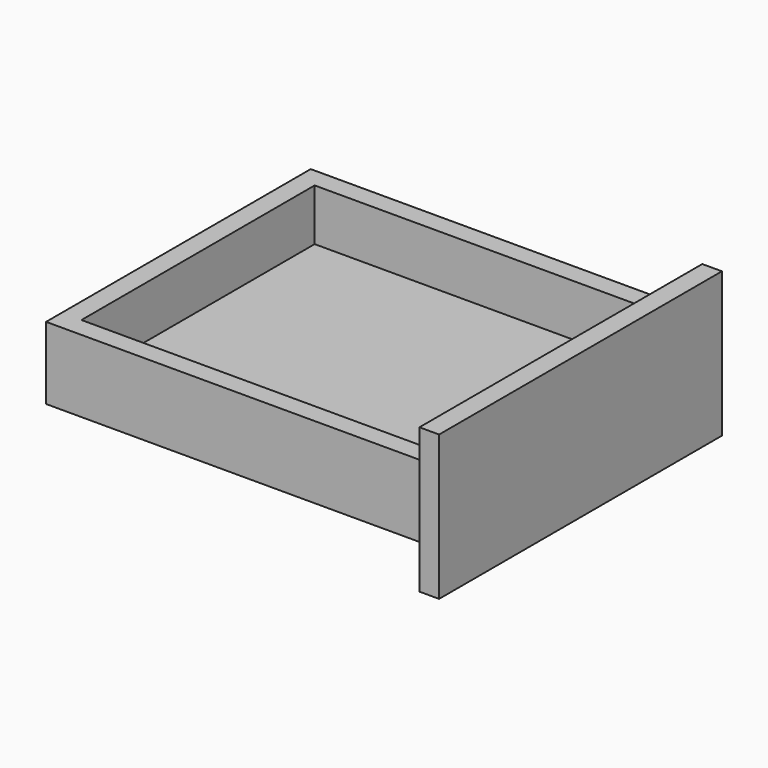
from build123d import *

# Parameters (mm, degrees)
F0_W      = 370
F0_H      = 320
F1_DEPTH  = 70
F2_W      = 332
F2_H      = 282
F3_DEPTH  = 25
F3_FACE_W = 332
F3_FACE_H = 282
F4_DEPTH  = 11
F5_DEPTH  = 25
F6_W      = 342
F6_H      = 140
F6_W_2    = 320
F6_H_2    = 70
F7_DEPTH  = 19


with BuildPart() as f1:
    # F0 (on Top) → F1 (new body)
    with BuildSketch(Plane.XY):
        Rectangle(F0_W, F0_H)
    extrude(amount=F1_DEPTH)

    # F2 (on face) → F3 (cut)
    with BuildSketch(Plane.XY.offset(70)):
        Rectangle(F2_W, F2_H)
    extrude(amount=-F3_DEPTH, mode=Mode.SUBTRACT)

    # F3_face (on face) → F4 (join)
    with BuildSketch(Plane.XY.offset(45)):
        Rectangle(F3_FACE_W, F3_FACE_H)
    extrude(amount=-F4_DEPTH)

    # F3_face (on face) → F5 (cut)
    with BuildSketch(Plane.XY.offset(45)):
        Rectangle(F3_FACE_W, F3_FACE_H)
    extrude(amount=-F5_DEPTH, mode=Mode.SUBTRACT)

    # F6 (on face) → F7 (join)
    with BuildSketch(Plane.YZ.offset(185)):
        with Locations((0, 35)):
            Rectangle(F6_W, F6_H)
        with Locations((0, 35)):
            Rectangle(F6_W_2, F6_H_2, mode=Mode.SUBTRACT)
        with Locations((0, 35)):
            Rectangle(F6_W_2, F6_H_2)
    extrude(amount=F7_DEPTH)


solid = f1.part
